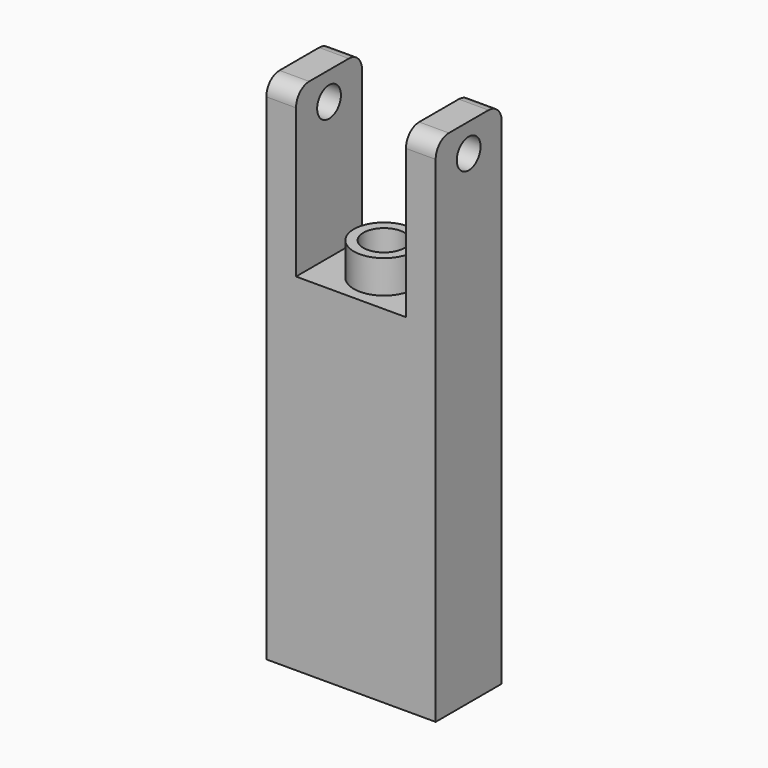
from build123d import *

# Parameters (mm, degrees)
F0_R      = 0.9
F1_DEPTH  = 1.8
F2_DEPTH  = 2
F3_W      = 5
F3_H      = 2
F5_DEPTH  = 6.66
F6_R      = 1.8308670993
F7_DEPTH  = 19
F8_R      = 1.25
F9_DEPTH  = 16
F10_DEPTH = 19
F11_R     = 1.8290202659
F11_R_2   = 1.25
F12_DEPTH = 2


with BuildPart() as f1:
    # F0 (on Right) → F1 (new body)
    with BuildSketch(Plane.YZ):
        with BuildLine():
            Line((-19.4736195393, 25.9610565752), (-22.4736195393, 25.9610565752))
            ThreePointArc((-22.4736195393, 25.9610565752), (-23.1807263205, 25.6681633564), (-23.4736195393, 24.9610565752))
            Line((-23.4736195393, 24.9610565752), (-23.4736195393, 15.9610565752))
            Line((-23.4736195393, 15.9610565752), (-18.4736195393, 15.9610565752))
            Line((-18.4736195393, 15.9610565752), (-18.4736195393, 24.9610565752))
            ThreePointArc((-18.4736195393, 24.9610565752), (-18.7665127581, 25.6681633564), (-19.4736195393, 25.9610565752))
        make_face()
        with Locations((-20.9736195393, 24.2594238371)):
            Circle(F0_R, mode=Mode.SUBTRACT)
    extrude(amount=F1_DEPTH)

    # F2 (add): a face of the model
    f2_faces = [f1.faces().sort_by_distance(p)[0] for p in [
        (0.9, -20.9736195393, 15.9610565752),
    ]]
    extrude(f2_faces, amount=F2_DEPTH)


with BuildPart() as f4_1:
    # F4: copy of F1
    add(f1.part.moved(Location((-8.46, 0, 0))))


with BuildPart() as f1_1:
    add(f1.part)

    add(f4_1.part)  # F5 merges F4_1
    # F3 (on face) → F5 (join)
    with BuildSketch(Plane(origin=(0, 0, 0), x_dir=(0, -1, 0), z_dir=(-1, 0, 0))):
        with Locations((20.9736195393, 14.9610565752)):
            Rectangle(F3_W, F3_H)
    extrude(amount=F5_DEPTH)

    # F6 (on face) → F7 (join)
    with BuildSketch(Plane(origin=(0, 0, 13.9610565752), x_dir=(1, 0, 0), z_dir=(0, 0, -1))):
        with Locations((-3.33, 20.9736195393)):
            Circle(F6_R)
    extrude(amount=F7_DEPTH)

    # F8 (on face) → F9 (cut)
    with BuildSketch(Plane.XY.offset(15.9610565752)):
        with Locations((-3.33, -20.9736195393)):
            Circle(F8_R)
    extrude(amount=-F9_DEPTH, mode=Mode.SUBTRACT)

    # F10 (add): a face of the model
    f10_faces = [f1_1.faces().sort_by_distance(p)[0] for p in [
        (-3.33, -23.3594847067, 13.9610565752),
    ]]
    extrude(f10_faces, amount=F10_DEPTH)

    # F11 (on face) → F12 (join)
    with BuildSketch(Plane.XY.offset(15.9610565752)):
        with Locations((-3.33, -20.9736195393)):
            Circle(F11_R)
        with Locations((-3.33, -20.9736195393)):
            Circle(F11_R_2, mode=Mode.SUBTRACT)
    extrude(amount=F12_DEPTH)


solid = f1_1.part
